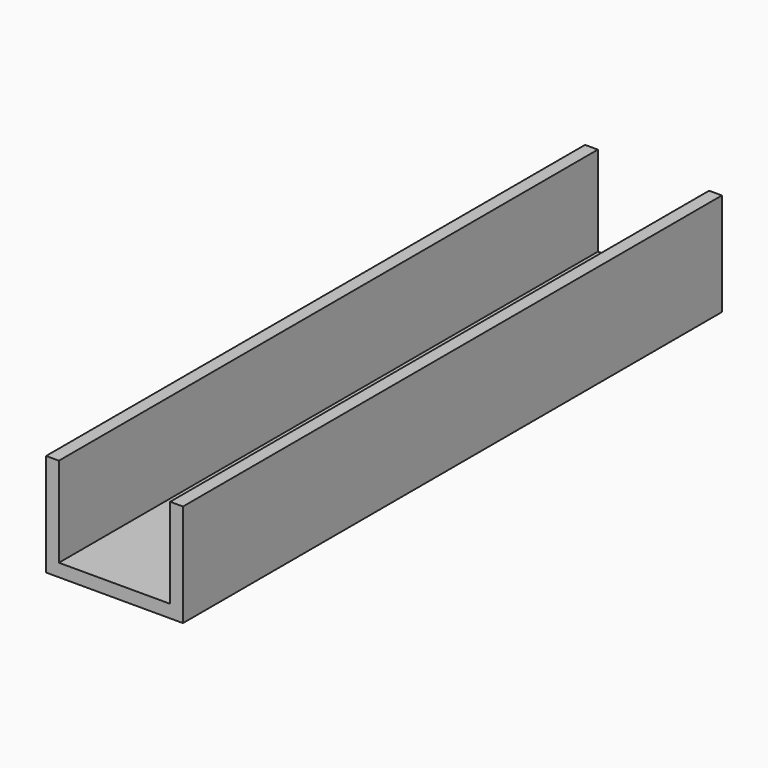
from build123d import *

# Parameters (mm, degrees)
F1_DEPTH      = 125
F1_DEPTH_BACK = 125


with BuildPart() as f1:
    # F0 (on Front) → F1 (new body, two sides)
    with BuildSketch(Plane.XZ) as f1_sk:
        Polygon((-25.4, -19.05), (25.4, -19.05), (25.4, 19.05), (20.64, 19.05), (20.64, 0), (20.64, -14.29), (0, -14.29), (-20.64, -14.29), (-20.64, 0), (-20.64, 19.05), (-25.4, 19.05), align=None)
    extrude(amount=F1_DEPTH)
    extrude(f1_sk.sketch, amount=-F1_DEPTH_BACK)


solid = f1.part
